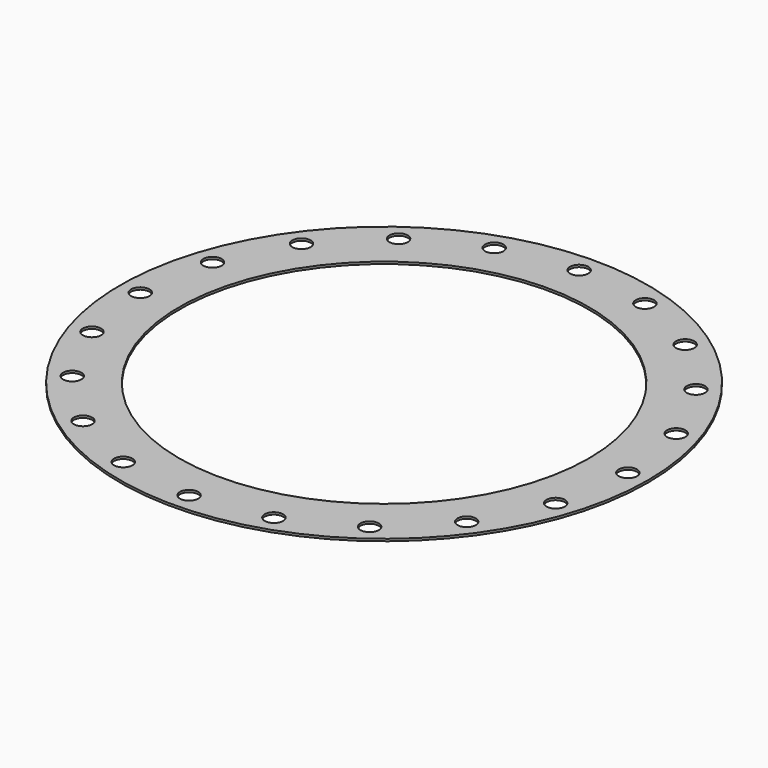
from build123d import *

# Parameters (mm, degrees)
F0_R     = 360
F0_R_2   = 12.5
F0_R_3   = 279.4
F1_DEPTH = 3


with BuildPart() as f1:
    # F0 (on Top) → F1 (new body)
    with BuildSketch(Plane.XY):
        Circle(F0_R)
        with Locations((-195.438596, -268.998151)):
            Circle(F0_R_2, mode=Mode.SUBTRACT)
        with Locations((-268.998151, -195.438596)):
            Circle(F0_R_2, mode=Mode.SUBTRACT)
        with Locations((-102.748151, -316.226292)):
            Circle(F0_R_2, mode=Mode.SUBTRACT)
        with Locations((-316.226292, -102.748151)):
            Circle(F0_R_2, mode=Mode.SUBTRACT)
        with Locations((0, -332.5)):
            Circle(F0_R_2, mode=Mode.SUBTRACT)
        with Locations((102.748151, -316.226292)):
            Circle(F0_R_2, mode=Mode.SUBTRACT)
        with Locations((195.438596, -268.998151)):
            Circle(F0_R_2, mode=Mode.SUBTRACT)
        with Locations((268.998151, -195.438596)):
            Circle(F0_R_2, mode=Mode.SUBTRACT)
        with Locations((316.226292, -102.748151)):
            Circle(F0_R_2, mode=Mode.SUBTRACT)
        with Locations((-332.5, 0)):
            Circle(F0_R_2, mode=Mode.SUBTRACT)
        with Locations((-316.226292, 102.748151)):
            Circle(F0_R_2, mode=Mode.SUBTRACT)
        with Locations((-268.998151, 195.438596)):
            Circle(F0_R_2, mode=Mode.SUBTRACT)
        with Locations((-195.438596, 268.998151)):
            Circle(F0_R_2, mode=Mode.SUBTRACT)
        with Locations((-102.748151, 316.226292)):
            Circle(F0_R_2, mode=Mode.SUBTRACT)
        Circle(F0_R_3, mode=Mode.SUBTRACT)
        with Locations((332.5, 0)):
            Circle(F0_R_2, mode=Mode.SUBTRACT)
        with Locations((316.226292, 102.748151)):
            Circle(F0_R_2, mode=Mode.SUBTRACT)
        with Locations((0, 332.5)):
            Circle(F0_R_2, mode=Mode.SUBTRACT)
        with Locations((102.748151, 316.226292)):
            Circle(F0_R_2, mode=Mode.SUBTRACT)
        with Locations((268.998151, 195.438596)):
            Circle(F0_R_2, mode=Mode.SUBTRACT)
        with Locations((195.438596, 268.998151)):
            Circle(F0_R_2, mode=Mode.SUBTRACT)
    extrude(amount=F1_DEPTH)


solid = f1.part
